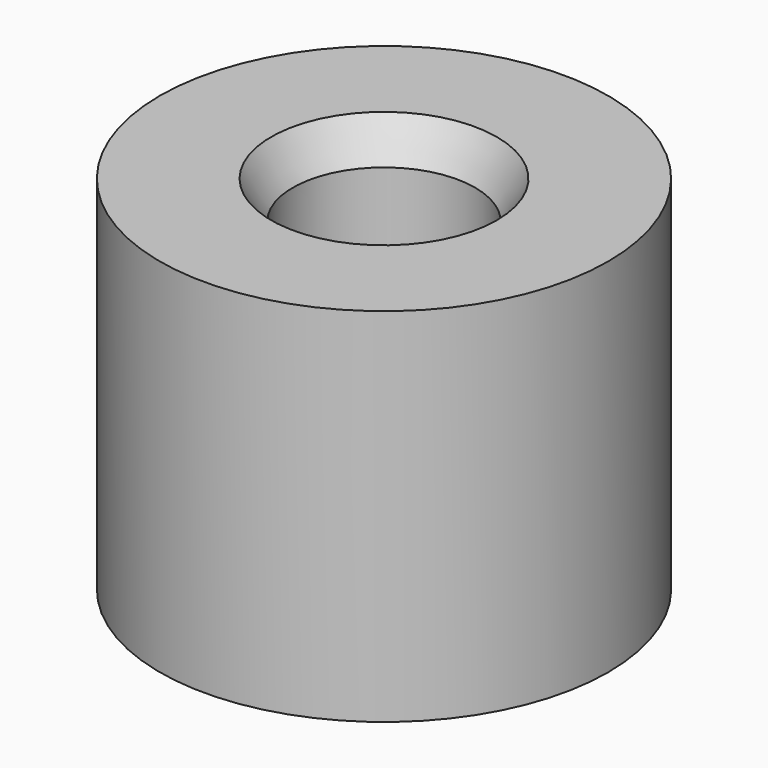
from build123d import *

# Parameters (mm, degrees)
F0_R     = 3.1
F0_R_2   = 1.26
F1_DEPTH = 5
F2_SIZE2 = 0.5196152423
F2_SIZE  = 0.3
F3_SCALE = 3


with BuildPart() as f1:
    # F0 (on Top) → F1 (new body)
    with BuildSketch(Plane.XY):
        Circle(F0_R)
        Circle(F0_R_2, mode=Mode.SUBTRACT)
    extrude(amount=F1_DEPTH)

    # F2
    f2_edges = [f1.edges().sort_by_distance(p)[0] for p in [
        (-1.26, 0, 5),
    ]]
    f2_side = f1.faces().sort_by_distance((-3.012319, 0, 5))[0]
    chamfer(f2_edges, length=F2_SIZE, length2=F2_SIZE2, reference=f2_side)


with BuildPart() as f1_1:
    # F3: moved
    add(f1.part.scale(F3_SCALE))


solid = f1_1.part
